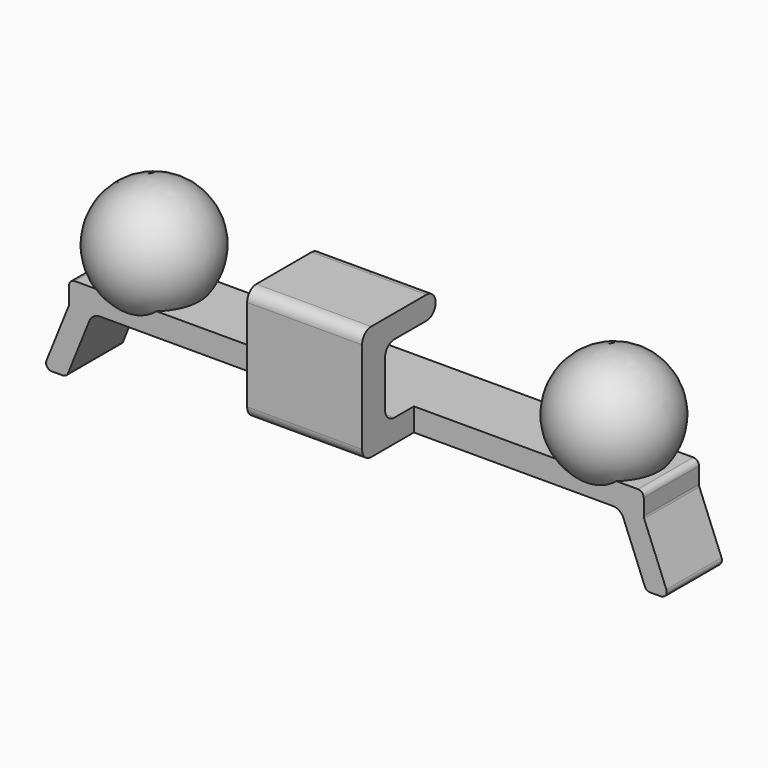
from build123d import *

# Parameters (mm, degrees)
F3_DEPTH      = 3
F3_DEPTH_BACK = 3
F5_DEPTH      = 5
F5_DEPTH_BACK = 5
F6_SCALE      = 1.5


with BuildPart() as f2:
    # F0 (on Front) → F2 (revolve)
    with BuildSketch(Plane.XZ):
        with BuildLine():
            Line((-25, 5), (-15.0003286976, 5.0810792445))
            ThreePointArc((-15.0003286976, 5.0810792445), (-20.040703971, 10.0403752734), (-25, 5))
        make_face()
    revolve(axis=Axis((-20.0001643488, 0, 5.0405396222), (0.9999671302, 0, 0.0081079244)))

    # F0 (on Front) → F3 (join, two sides)
    with BuildSketch(Plane.XZ) as f3_sk:
        with BuildLine():
            ThreePointArc((-23.2302926299, -0.6269286958), (-22.8623688248, -0.1714255301), (-22.3024899558, 0))
            Line((-22.3024899558, 0), (0, 0))
            Line((0, 0), (0, 2))
            Line((0, 2), (-24.5, 2))
            ThreePointArc((-24.5, 2), (-24.8535533906, 1.8535533906), (-25, 1.5))
            Line((-25, 1.5), (-25, 0.0967607601))
            ThreePointArc((-25, 0.0967607601), (-25.0091076144, 0.0017625194), (-25.036098663, -0.089774892))
            Line((-25.036098663, -0.089774892), (-26.9623704714, -4.8802803922))
            ThreePointArc((-26.9623704714, -4.8802803922), (-26.9127563693, -5.3467554788), (-26.4984691344, -5.5668160443))
            Line((-26.4984691344, -5.5668160443), (-25.5544878752, -5.5668160443))
            ThreePointArc((-25.5544878752, -5.5668160443), (-25.2745484408, -5.4811032792), (-25.0905865382, -5.2533516964))
            Line((-25.0905865382, -5.2533516964), (-23.2302926299, -0.6269286958))
        make_face()
        with BuildLine():
            ThreePointArc((-23.2302926299, -0.6269286958), (-22.8623688248, -0.1714255301), (-22.3024899558, 0))
            Line((-22.3024899558, 0), (0, 0))
            Line((0, 0), (0, 2))
            Line((0, 2), (-24.5, 2))
            ThreePointArc((-24.5, 2), (-24.8535533906, 1.8535533906), (-25, 1.5))
            Line((-25, 1.5), (-25, 0.0967607601))
            ThreePointArc((-25, 0.0967607601), (-25.0091076144, 0.0017625194), (-25.036098663, -0.089774892))
            Line((-25.036098663, -0.089774892), (-26.9623704714, -4.8802803922))
            ThreePointArc((-26.9623704714, -4.8802803922), (-26.9127563693, -5.3467554788), (-26.4984691344, -5.5668160443))
            Line((-26.4984691344, -5.5668160443), (-25.5544878752, -5.5668160443))
            ThreePointArc((-25.5544878752, -5.5668160443), (-25.2745484408, -5.4811032792), (-25.0905865382, -5.2533516964))
            Line((-25.0905865382, -5.2533516964), (-23.2302926299, -0.6269286958))
        make_face()
    extrude(amount=-F3_DEPTH)
    extrude(f3_sk.sketch, amount=F3_DEPTH_BACK)

    # F4: F2 across plane


with BuildPart() as f2_1:
    add(f2.part)
    add(f2.part.mirror(Plane.YZ))

    # F1 (on Right) → F5 (join, two sides)
    with BuildSketch(Plane.YZ) as f5_sk:
        with BuildLine():
            Line((-7.6333043873, 0), (0, 0))
            Line((0, 0), (0, 2))
            Line((0, 2), (-5.1333043873, 2))
            ThreePointArc((-5.1333043873, 2), (-5.8404111685, 2.2928932188), (-6.1333043873, 3))
            Line((-6.1333043873, 3), (-6.1333043873, 7))
            ThreePointArc((-6.1333043873, 7), (-5.8404111685, 7.7071067812), (-5.1333043873, 8))
            Line((-5.1333043873, 8), (-1.6333043873, 8))
            ThreePointArc((-1.6333043873, 8), (-0.9261976061, 8.2928932188), (-0.6333043873, 9))
            ThreePointArc((-0.6333043873, 9), (-0.9261976061, 9.7071067812), (-1.6333043873, 10))
            Line((-1.6333043873, 10), (-7.6333043873, 10))
            ThreePointArc((-7.6333043873, 10), (-8.3404111685, 9.7071067812), (-8.6333043873, 9))
            Line((-8.6333043873, 9), (-8.6333043873, 1))
            ThreePointArc((-8.6333043873, 1), (-8.3404111685, 0.2928932188), (-7.6333043873, 0))
        make_face()
    extrude(amount=F5_DEPTH)
    extrude(f5_sk.sketch, amount=-F5_DEPTH_BACK)


with BuildPart() as f2_2:
    # F6: moved
    add(f2_1.part.scale(F6_SCALE).moved(Location((-2.5, 0.8166521937, -5))))


solid = f2_2.part
